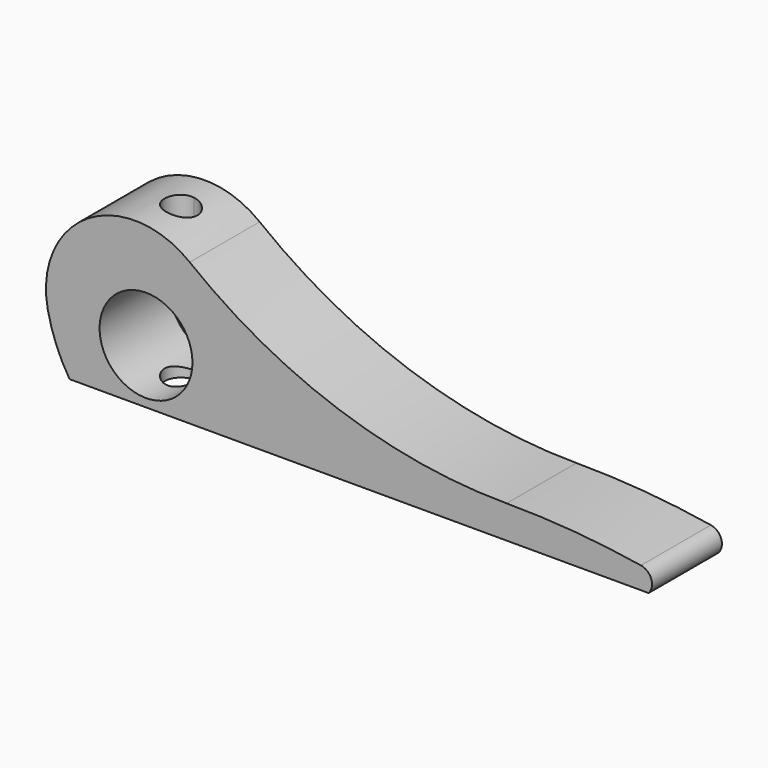
from build123d import *

# Parameters (mm, degrees)
F0_R     = 10.795
F1_DEPTH = 20.32
F3_DEPTH = 37.415268


with BuildPart() as f1:
    # F0 (on Front) → F1 (new body)
    with BuildSketch(Plane.XZ):
        with BuildLine():
            ThreePointArc((-5.08, 12.7), (-3.12545, 6.11582), (0, 0))
            Line((0, 0), (134.62, 0))
            ThreePointArc((134.62, 0), (135.239562, 3.067997), (132.842, 5.08))
            ThreePointArc((132.842, 5.08), (117.272541, 6.983954), (101.6, 7.62))
            ThreePointArc((101.6, 7.62), (62.641831, 14.148311), (27.94, 33.02))
            ThreePointArc((27.94, 33.02), (4.360893, 34.347299), (-5.08, 12.7))
        make_face()
        with Locations((17.78, 12.7)):
            Circle(F0_R, mode=Mode.SUBTRACT)
    extrude(amount=F1_DEPTH)

    # F2 (on face) → F3 (cut, through all)
    with BuildSketch(Plane(origin=(0, 0, 0), x_dir=(1, 0, 0), z_dir=(0, 0, -1))):
        with BuildLine():
            ThreePointArc((17.78, 6.35), (20.474077, 7.465923), (21.59, 10.16))
            ThreePointArc((21.59, 10.16), (20.474077, 12.854077), (17.78, 13.97))
            Line((17.78, 13.97), (17.78, 6.35))
        make_face()
        with BuildLine():
            Line((17.78, 6.35), (17.78, 13.97))
            ThreePointArc((17.78, 13.97), (13.97, 10.16), (17.78, 6.35))
        make_face()
    extrude(amount=-F3_DEPTH, mode=Mode.SUBTRACT)


solid = f1.part
